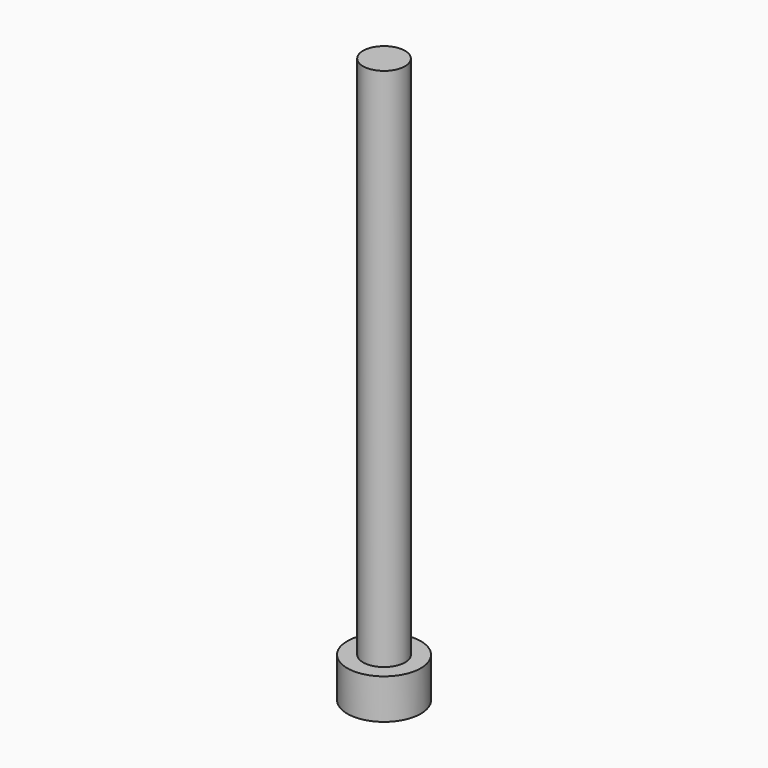
from build123d import *

# Parameters (mm, degrees)
CYLINDER_R      = 3.5
CYLINDER_DEPTH  = 3.82
SKETCH002_R     = 2
PAD001_DEPTH    = 50
POCKET001_DEPTH = 3


with BuildPart() as part:
    # Cylinder → Cylinder (new body)
    with BuildSketch(Plane.XY):
        Circle(CYLINDER_R)
    extrude(amount=CYLINDER_DEPTH)

    # Sketch002 → Pad001 (new body)
    with BuildSketch(Plane.XY.offset(3.82)):
        Circle(SKETCH002_R)
    extrude(amount=PAD001_DEPTH)

    # Sketch003 → Pocket001 (cut)
    with BuildSketch(Plane(origin=(0, 0, 0), x_dir=(1, 0, 0), z_dir=(0, 0, -1))):
        Polygon((1.732051, 1), (0, 2), (-1.732051, 1), (-1.732051, -1), (0, -2), (1.732051, -1), align=None)
    extrude(amount=-POCKET001_DEPTH, mode=Mode.SUBTRACT)


solid = part.part
